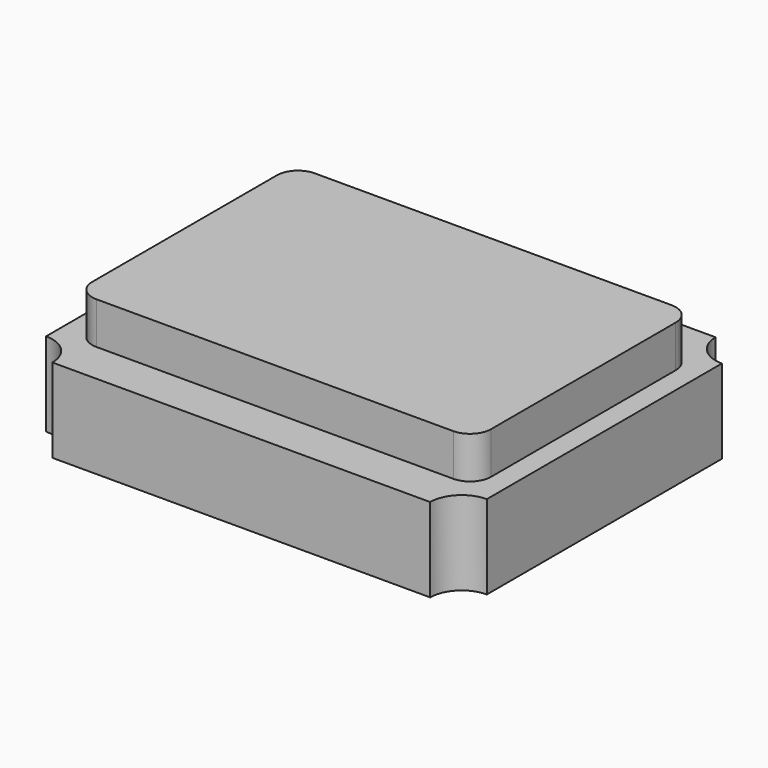
from build123d import *

# Parameters (mm, degrees)
F1_DEPTH = 0.6
F2_W     = 3.739622
F2_H     = 2.95654
F3_DEPTH = 0.2


with BuildPart() as f1:
    # F0 (on Top) → F1 (new body)
    with BuildSketch(Plane.XY):
        with BuildLine():
            Line((-0.9, -0.85), (0.9, -0.85))
            ThreePointArc((0.9, -0.85), (0.943934, -0.743934), (1.05, -0.7))
            Line((1.05, -0.7), (1.05, 0.7))
            ThreePointArc((1.05, 0.7), (0.943934, 0.743934), (0.9, 0.85))
            Line((0.9, 0.85), (-0.9, 0.85))
            ThreePointArc((-0.9, 0.85), (-0.943934, 0.743934), (-1.05, 0.7))
            Line((-1.05, 0.7), (-1.05, -0.7))
            ThreePointArc((-1.05, -0.7), (-0.943934, -0.743934), (-0.9, -0.85))
        make_face()
    extrude(amount=F1_DEPTH)


with BuildPart() as f3:
    # F2 (on face) → F3 (new body)
    with BuildSketch(Plane.XY.offset(0.6)):
        Rectangle(F2_W, F2_H)
        with BuildLine():
            ThreePointArc((0.95, -0.55), (0.920711, -0.620711), (0.85, -0.65))
            Line((0.85, -0.65), (-0.85, -0.65))
            ThreePointArc((-0.85, -0.65), (-0.920711, -0.620711), (-0.95, -0.55))
            Line((-0.95, -0.55), (-0.95, 0.55))
            ThreePointArc((-0.95, 0.55), (-0.920711, 0.620711), (-0.85, 0.65))
            Line((-0.85, 0.65), (0.85, 0.65))
            ThreePointArc((0.85, 0.65), (0.920711, 0.620711), (0.95, 0.55))
            Line((0.95, 0.55), (0.95, -0.55))
        make_face(mode=Mode.SUBTRACT)
    extrude(amount=-F3_DEPTH)


with BuildPart() as f1_1:
    add(f1.part)

    # F4: cut F3
    add(f3.part, mode=Mode.SUBTRACT)


solid = f1_1.part
